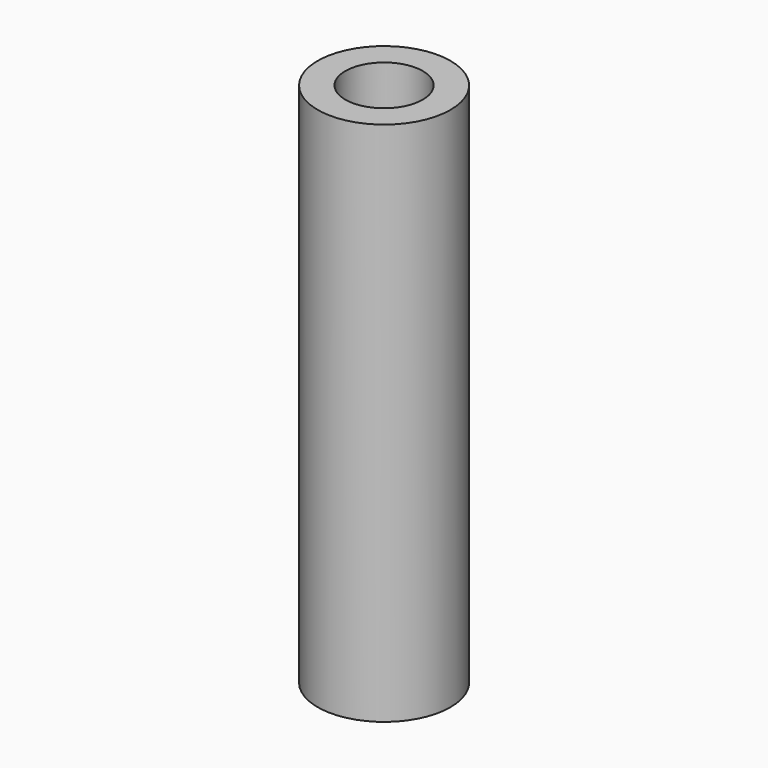
from build123d import *

# Parameters (mm, degrees)
CYLINDER_R           = 12
CYLINDER_DEPTH       = 95
SKETCH_R             = 9.2
POCKET_DEPTH         = 70
SKETCH001_R          = 7
POCKET001_DEPTH      = 0.001
POCKET001_DEPTH_BACK = -95.001


with BuildPart() as part:
    # Cylinder → Cylinder (new body)
    with BuildSketch(Plane.XY):
        Circle(CYLINDER_R)
    extrude(amount=CYLINDER_DEPTH)

    # Sketch → Pocket (cut)
    with BuildSketch(Plane.XY):
        Circle(SKETCH_R)
    extrude(amount=POCKET_DEPTH, mode=Mode.SUBTRACT)

    # Sketch001 → Pocket001 (cut, two sides)
    with BuildSketch(Plane.XY) as pocket001_sk:
        Circle(SKETCH001_R)
    extrude(amount=-POCKET001_DEPTH, mode=Mode.SUBTRACT)
    extrude(pocket001_sk.sketch, amount=-POCKET001_DEPTH_BACK, mode=Mode.SUBTRACT)


solid = part.part
